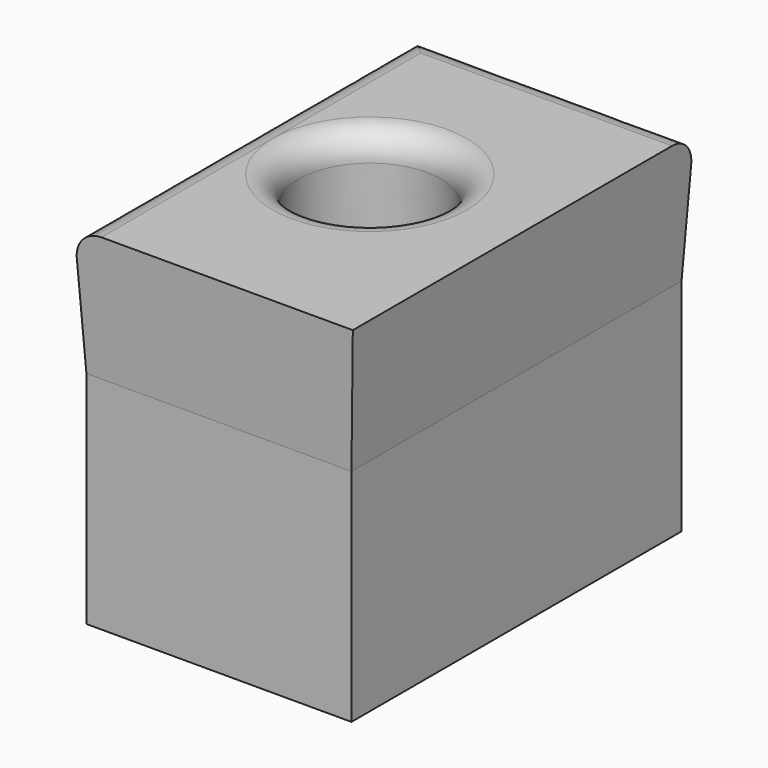
from build123d import *

# Parameters (mm, degrees)
F0_W     = 52.0827807486
F0_H     = 81.0816735029
F1_DEPTH = 43.3417446911
F2_W     = 52.0827807486
F2_H     = 81.0816735029
F2_R     = 15.0408824119
F3_DEPTH = 25.4
F3_TAPER = -3
F4_R     = 5.08
F5_R     = 5.08


with BuildPart() as f1:
    # F0 (on Top) → F1 (new body)
    with BuildSketch(Plane.XY):
        with Locations((-26.0413903743, 40.5408367515)):
            Rectangle(F0_W, F0_H)
    extrude(amount=F1_DEPTH)

    # F2 (on face) → F3 (join)
    with BuildSketch(Plane.XY.offset(43.3417446911)):
        with Locations((-26.0413903743, 40.5408367515)):
            Rectangle(F2_W, F2_H)
        with Locations((-28.9890691638, 40.7522916794)):
            Circle(F2_R, mode=Mode.SUBTRACT)
    extrude(amount=F3_DEPTH, taper=F3_TAPER)

    # F4
    f4_edges = [f1.edges().sort_by_distance(p)[0] for p in [
        (-26.04139, 82.412831, 68.741745),
        (-53.413938, 40.540837, 68.741745),
    ]]
    fillet(f4_edges, radius=F4_R)

    # F5
    f5_edges = [f1.edges().sort_by_distance(p)[0] for p in [
        (-42.698794, 40.752292, 68.741745),
    ]]
    fillet(f5_edges, radius=F5_R)


solid = f1.part
